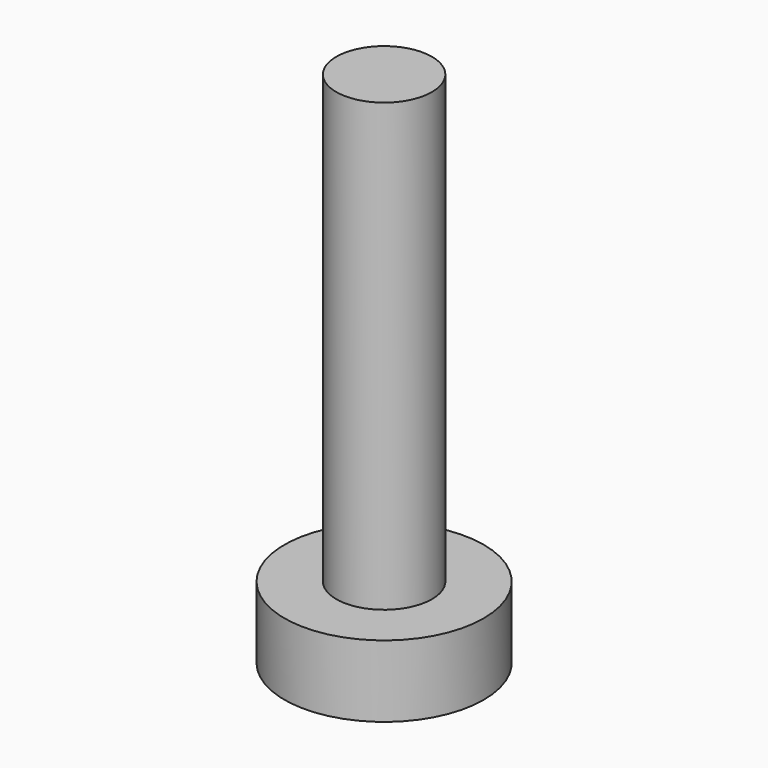
from build123d import *


with BuildPart() as part:
    # Sketch → Revolution (revolve)
    with BuildSketch(Plane.XZ):
        Polygon((0, 13), (1.2, 13), (1.2, 1.8), (2.5, 1.8), (2.5, 0), (0, 0), align=None)
    revolve(axis=Axis((0, 0, 0), (0, 0, 1)))


solid = part.part
